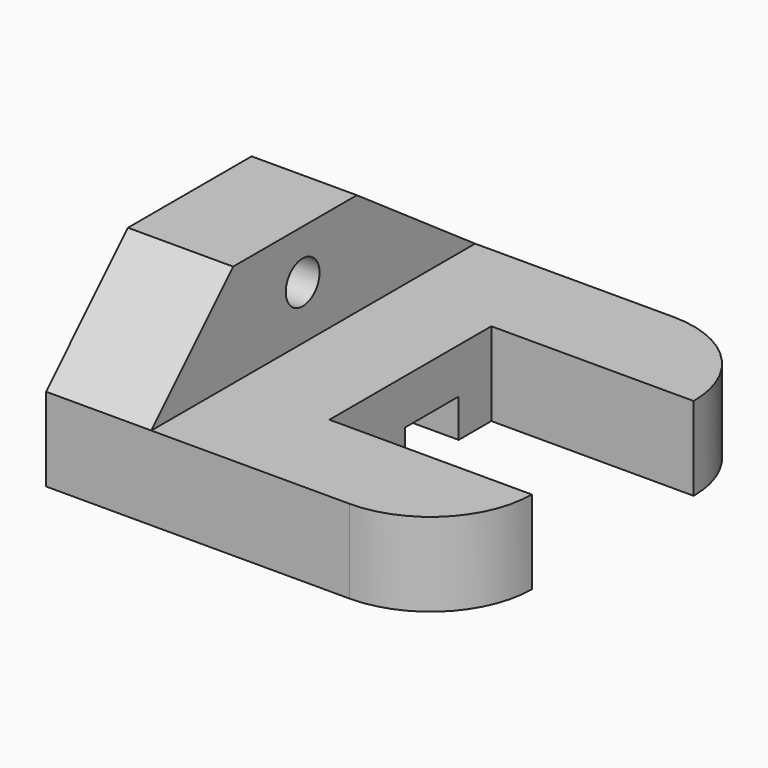
from build123d import *

# Parameters (mm, degrees)
F1_DEPTH = 41.91
F3_DEPTH = 52.832
F4_R     = 10.605474
F5_DEPTH = 85.598
F6_W     = 33.727639
F6_H     = 19.182933
F7_DEPTH = 56.896


with BuildPart() as f1:
    # F0 (on Top) → F1 (new body)
    with BuildSketch(Plane.XY):
        with BuildLine():
            Line((0, 101.6), (0, -101.6))
            Line((0, -101.6), (152.4, -101.6))
            ThreePointArc((152.4, -101.6), (188.321024, -86.721024), (203.2, -50.8))
            Line((203.2, -50.8), (101.6, -50.8))
            Line((101.6, -50.8), (101.6, 50.8))
            Line((101.6, 50.8), (203.2, 50.8))
            ThreePointArc((203.2, 50.8), (188.321024, 86.721024), (152.4, 101.6))
            Line((152.4, 101.6), (0, 101.6))
        make_face()
    extrude(amount=F1_DEPTH)

    # F2 (on face) → F3 (join)
    with BuildSketch(Plane(origin=(0, 0, 0), x_dir=(0, -1, 0), z_dir=(-1, 0, 0))):
        Polygon((-27.380493, 93.494549), (-101.6, 41.91), (101.6, 41.91), (50.246455, 93.494549), align=None)
    extrude(amount=-F3_DEPTH)

    # F4 (on face) → F5 (cut)
    with BuildSketch(Plane.YZ.offset(52.832)):
        with Locations((-6.630837, 68.815641)):
            Circle(F4_R)
    extrude(amount=-F5_DEPTH, mode=Mode.SUBTRACT)

    # F6 (on face) → F7 (cut)
    with BuildSketch(Plane.YZ.offset(101.6)):
        with Locations((13.456206, 9.591466)):
            Rectangle(F6_W, F6_H)
    extrude(amount=-F7_DEPTH, mode=Mode.SUBTRACT)


solid = f1.part
